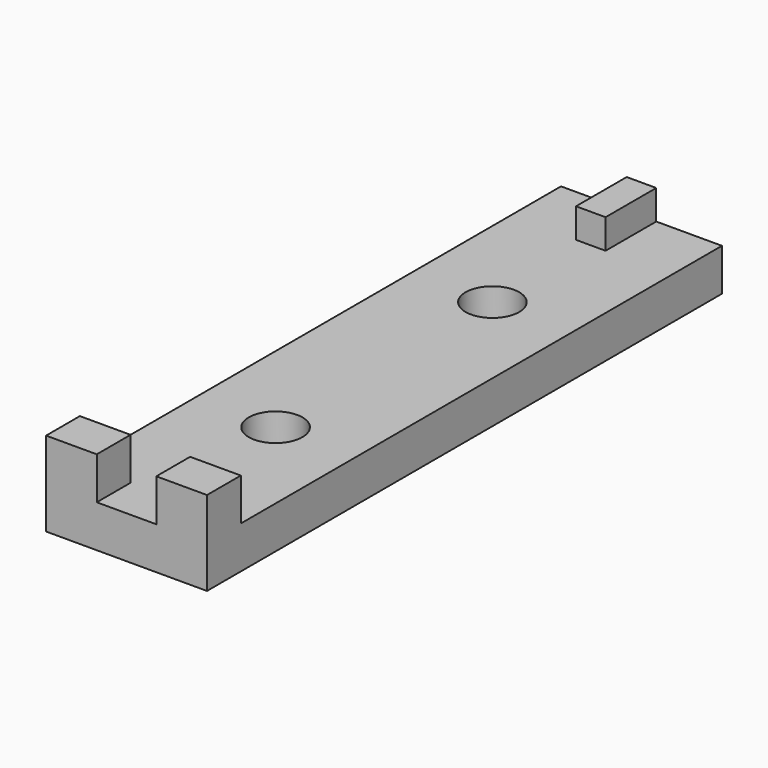
from build123d import *

# Parameters (mm, degrees)
F0_W      = 19.05
F0_H      = 76.2
F1_DEPTH  = 5
F2_W      = 3.5
F2_H      = 7.5
F2_W_2    = 6
F2_H_2    = 5
F3_DEPTH  = 5
F4_R      = 3.175
F5_DEPTH  = 5
F3_FACE_W = 3.5
F3_FACE_H = 7.5
F6_DEPTH  = 1.5


with BuildPart() as f1:
    # F0 (on Top) → F1 (new body)
    with BuildSketch(Plane.XY):
        Rectangle(F0_W, F0_H)
    extrude(amount=F1_DEPTH)

    # F2 (on face) → F3 (join)
    with BuildSketch(Plane.XY.offset(5)):
        with Locations((0, 34.35)):
            Rectangle(F2_W, F2_H)
        with Locations((-6.525, -35.6)):
            Rectangle(F2_W_2, F2_H_2)
        with Locations((6.525, -35.6)):
            Rectangle(F2_W_2, F2_H_2)
    extrude(amount=F3_DEPTH)

    # F4 (on face) → F5 (cut)
    with BuildSketch(Plane.XY.offset(5)):
        with Locations((0, 16.04)):
            Circle(F4_R)
        with Locations((0, -16.04)):
            Circle(F4_R)
    extrude(amount=-F5_DEPTH, mode=Mode.SUBTRACT)

    # F3_face (on face) → F6 (cut)
    with BuildSketch(Plane(origin=(0, 34.35, 10), x_dir=(1, 0, 0), z_dir=(0, 0, 1))):
        Rectangle(F3_FACE_W, F3_FACE_H)
    extrude(amount=-F6_DEPTH, mode=Mode.SUBTRACT)


solid = f1.part
